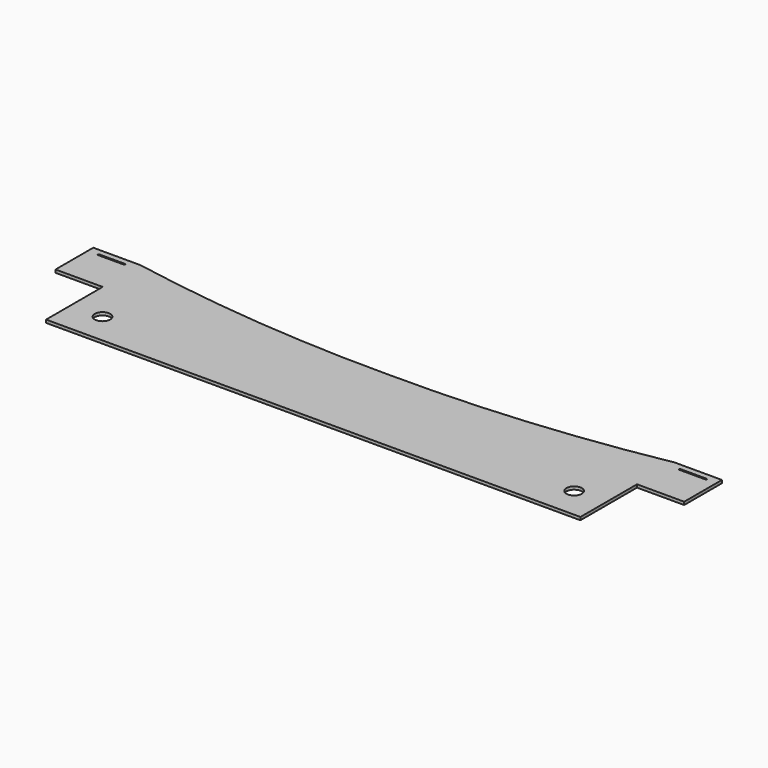
from build123d import *

# Parameters (mm, degrees)
F0_R     = 4.16687
F1_DEPTH = 1.5875


with BuildPart() as f1:
    # F0 (on Top) → F1 (new body)
    with BuildSketch(Plane.XY):
        with BuildLine():
            Line((-218.627845, 13.53459), (-244.027845, 13.53459))
            Line((-244.027845, 13.53459), (-244.027845, -11.86541))
            Line((-244.027845, -11.86541), (-218.627845, -11.86541))
            Line((-218.627845, -11.86541), (-218.627845, -49.96541))
            Line((-218.627845, -49.96541), (-74.760975, -49.96541))
            Line((-74.760975, -49.96541), (69.105895, -49.96541))
            Line((69.105895, -49.96541), (69.105895, -11.86541))
            Line((69.105895, -11.86541), (94.505895, -11.86541))
            Line((94.505895, -11.86541), (94.505895, 13.53459))
            Line((94.505895, 13.53459), (69.105895, 13.53459))
            ThreePointArc((69.105895, 13.53459), (-2.525973, 3.768411), (-74.760975, 0.83459))
            ThreePointArc((-74.760975, 0.83459), (-146.995977, 3.768411), (-218.627845, 13.53459))
        make_face()
        with Locations((-201.760975, -33.09854)):
            Circle(F0_R, mode=Mode.SUBTRACT)
        with Locations((52.239025, -33.09854)):
            Circle(F0_R, mode=Mode.SUBTRACT)
        with BuildLine():
            ThreePointArc((-238.312845, 9.53409), (-238.725595, 9.94684), (-238.312845, 10.35959))
            Line((-238.312845, 10.35959), (-224.342845, 10.35959))
            ThreePointArc((-224.342845, 10.35959), (-223.930095, 9.94684), (-224.342845, 9.53409))
            Line((-224.342845, 9.53409), (-238.312845, 9.53409))
        make_face(mode=Mode.SUBTRACT)
        with BuildLine():
            ThreePointArc((74.820895, 9.53409), (74.408145, 9.94684), (74.820895, 10.35959))
            Line((74.820895, 10.35959), (88.790895, 10.35959))
            ThreePointArc((88.790895, 10.35959), (89.203645, 9.94684), (88.790895, 9.53409))
            Line((88.790895, 9.53409), (74.820895, 9.53409))
        make_face(mode=Mode.SUBTRACT)
    extrude(amount=F1_DEPTH)


solid = f1.part
